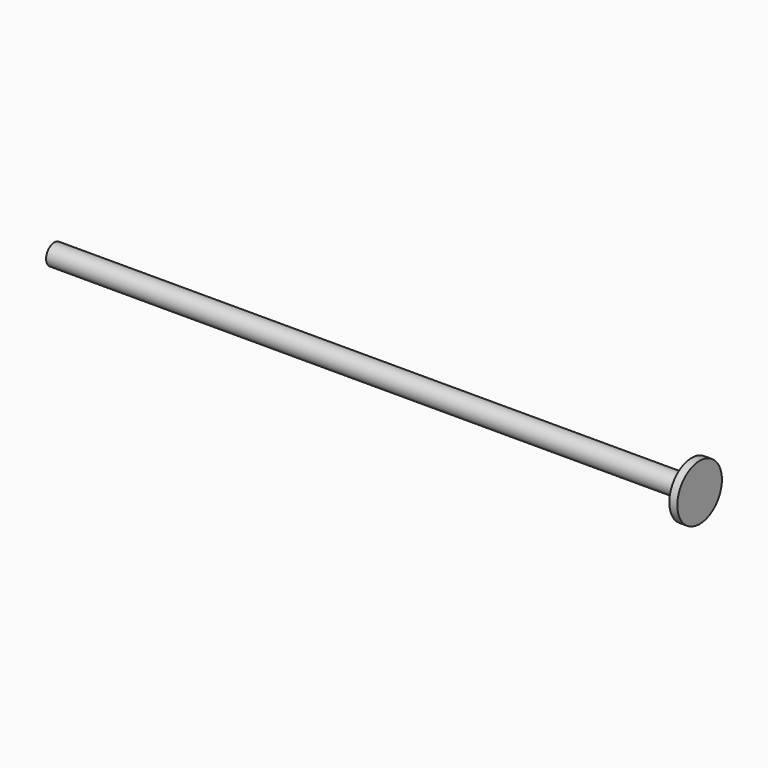
from build123d import *

# Parameters (mm, degrees)
F0_R     = 2.2225
F1_DEPTH = 0.635
F2_R     = 0.8255
F3_DEPTH = 50.8


with BuildPart() as f1:
    # F0 (on Right) → F1 (new body)
    with BuildSketch(Plane.YZ):
        Circle(F0_R)
    extrude(amount=F1_DEPTH)

    # F2 (on face) → F3 (join)
    with BuildSketch(Plane(origin=(0, 0, 0), x_dir=(0, -1, 0), z_dir=(-1, 0, 0))):
        Circle(F2_R)
    extrude(amount=F3_DEPTH)


solid = f1.part
